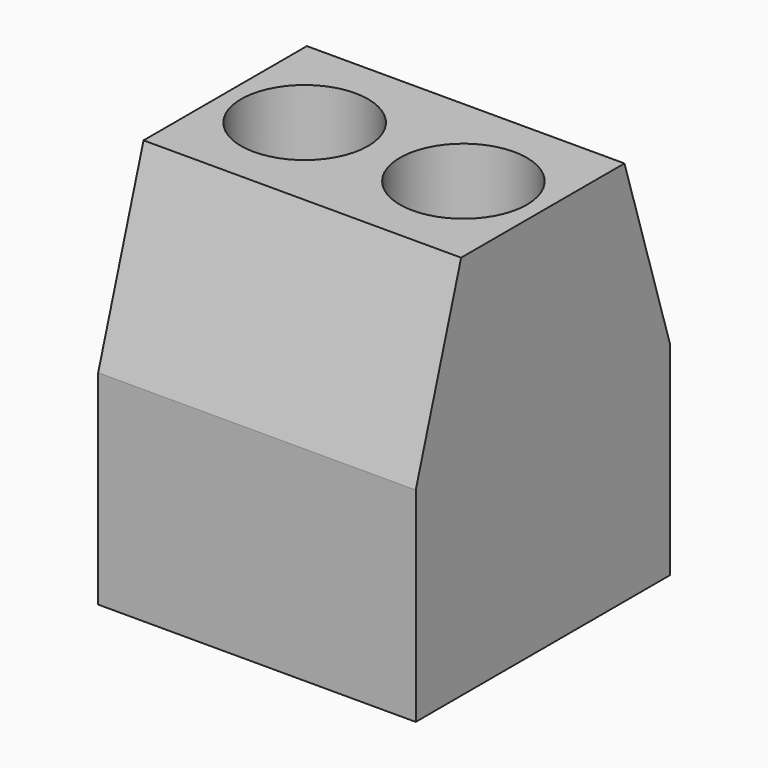
from build123d import *

# Parameters (mm, degrees)
SKETCH001_W     = 7
SKETCH001_H     = 7
PAD001_DEPTH    = 8.5
POCKET_DEPTH    = 7
SKETCH003_R     = 1.4
POCKET001_DEPTH = 5
SKETCH004_W     = 2.8
SKETCH004_H     = 3.5
POCKET002_DEPTH = 4


with BuildPart() as part:
    # Sketch001 (on Face1 of CopyFillet) → Pad001 (new body)
    with BuildSketch(Plane.XY.offset(1.6)):
        with Locations((0, 8.999962)):
            Rectangle(SKETCH001_W, SKETCH001_H)
    extrude(amount=PAD001_DEPTH)

    # Sketch002 (on Face2 of Pad001) → Pocket (cut)
    with BuildSketch(Plane(origin=(3.5, 0, 1.6), x_dir=(0, 1, 0), z_dir=(1, 0, 0))):
        Polygon((5.499962, 4.5), (6.749962, 8.5), (5.499962, 8.5), align=None)
        Polygon((11.249962, 8.5), (12.499962, 8.5), (12.499962, 4.5), align=None)
    extrude(amount=-POCKET_DEPTH, mode=Mode.SUBTRACT)

    # Sketch003 (on Face8 of Pocket) → Pocket001 (cut)
    with BuildSketch(Plane.XY.offset(10.1)):
        with Locations((-1.75, 8.999962)):
            Circle(SKETCH003_R)
        with Locations((1.75, 8.999962)):
            Circle(SKETCH003_R)
    extrude(amount=-POCKET001_DEPTH, mode=Mode.SUBTRACT)

    # Sketch004 (on Face6 of Pocket001) → Pocket002 (cut)
    with BuildSketch(Plane(origin=(0, 12.499962, 1.6), x_dir=(-1, 0, 0), z_dir=(0, 1, 0))):
        with Locations((-1.75, 2.25)):
            Rectangle(SKETCH004_W, SKETCH004_H)
        with Locations((1.75, 2.25)):
            Rectangle(SKETCH004_W, SKETCH004_H)
    extrude(amount=-POCKET002_DEPTH, mode=Mode.SUBTRACT)


solid = part.part
